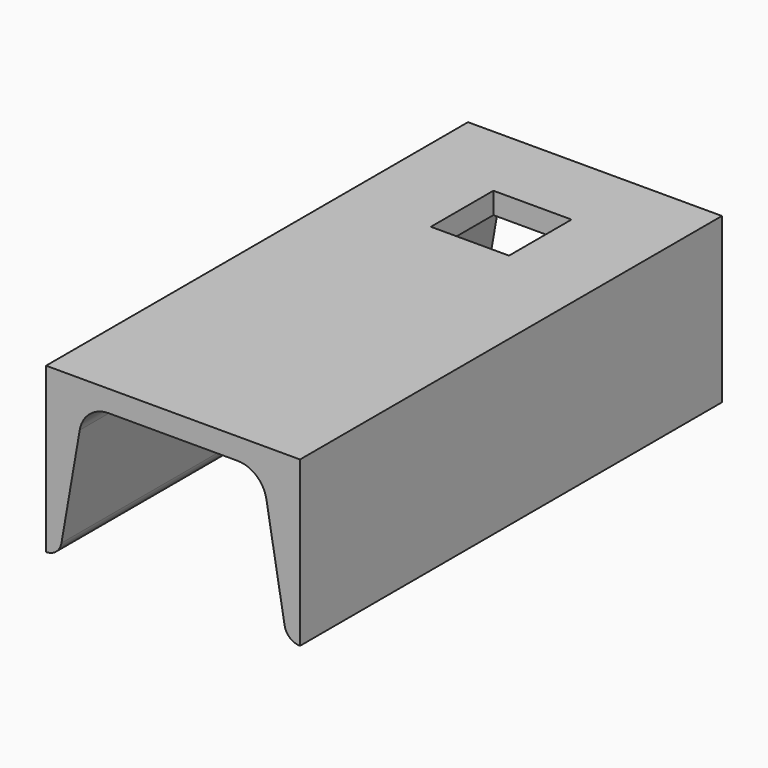
from build123d import *

# Parameters (mm, degrees)
SKETCH017_W      = 20
SKETCH017_H      = 20
EXTRUDE016_DEPTH = 15
EXTRUDE017_DEPTH = 135


with BuildPart() as extrude016:
    # Sketch017 (on Face2 of Extrude017) → Extrude016 (new body, symmetric)
    with BuildSketch(Plane.XY.offset(81)):
        with Locations((0, 454.863156)):
            Rectangle(SKETCH017_W, SKETCH017_H)
    extrude(amount=EXTRUDE016_DEPTH, both=True)


with BuildPart() as u069:
    # Sketch019 (on Face6 of Extrude015) → Extrude017 (new body)
    with BuildSketch(Plane(origin=(0, 349.863156, 0), x_dir=(-1, 0, 0), z_dir=(0, 1, 0))):
        with BuildLine():
            Line((-32.5, 39), (-32.5, 81))
            Line((-32.5, 81), (32.5, 81))
            Line((32.5, 81), (32.5, 39))
            ThreePointArc((28.55865, 42.317536), (29.924137, 39.939783), (32.5, 39))
            Line((23.890032, 69.27962), (28.55865, 42.317536))
            ThreePointArc((23.890032, 69.27962), (21.329744, 73.737907), (16.5, 75.5))
            Line((-16.5, 75.5), (16.5, 75.5))
            ThreePointArc((-16.5, 75.5), (-21.329744, 73.737907), (-23.890032, 69.27962))
            Line((-23.890032, 69.27962), (-28.55865, 42.317536))
            ThreePointArc((-32.5, 39), (-29.924137, 39.939783), (-28.55865, 42.317536))
        make_face()
    extrude(amount=EXTRUDE017_DEPTH)

    # Cut006: cut Extrude016
    add(extrude016.part, mode=Mode.SUBTRACT)


solid = u069.part
